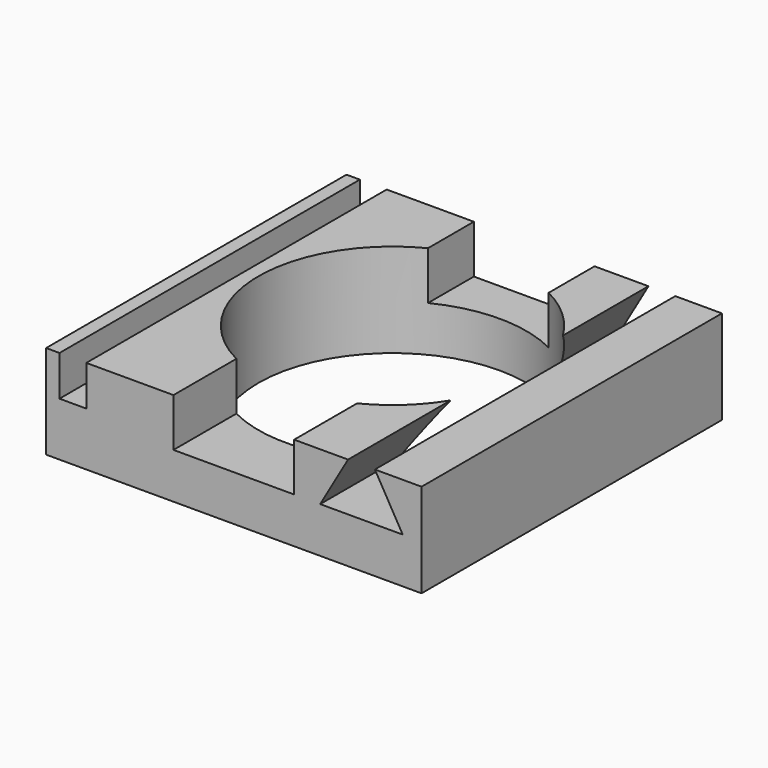
from build123d import *

# Parameters (mm, degrees)
F0_W     = 140
F0_H     = 140
F0_R     = 50
F1_DEPTH = 17.5
F2_W     = 10
F2_H     = 140
F3_DEPTH = 15
F5_DEPTH = 18
F7_DEPTH = 172.6


with BuildPart() as f1:
    # F0 (on Top) → F1 (new body, symmetric)
    with BuildSketch(Plane.XY):
        Rectangle(F0_W, F0_H)
        with Locations((0, 3.96405)):
            Circle(F0_R, mode=Mode.SUBTRACT)
    extrude(amount=F1_DEPTH, both=True)

    # F2 (on face) → F3 (cut)
    with BuildSketch(Plane.XY.offset(17.5)):
        with Locations((-60, 0)):
            Rectangle(F2_W, F2_H)
    extrude(amount=-F3_DEPTH, mode=Mode.SUBTRACT)

    # F4 (on face) → F5 (cut)
    with BuildSketch(Plane.XY.offset(17.5)):
        with BuildLine():
            Line((22.5, -70), (22.5, -40.687378))
            ThreePointArc((22.5, -40.687378), (0, -46.03595), (-22.5, -40.687378))
            Line((-22.5, -40.687378), (-22.5, -70))
            Line((-22.5, -70), (22.5, -70))
        make_face()
        with BuildLine():
            Line((22.5, 48.615477), (22.5, 70))
            Line((22.5, 70), (-22.5, 70))
            Line((-22.5, 70), (-22.5, 48.615477))
            ThreePointArc((-22.5, 48.615477), (0, 53.96405), (22.5, 48.615477))
        make_face()
    extrude(amount=-F5_DEPTH, mode=Mode.SUBTRACT)

    # F6 (on face) → F7 (cut)
    with BuildSketch(Plane.XZ.offset(70)):
        Polygon((52.595693, 17.5), (42.595693, 17.5), (32.203389, -0.5), (62.987998, -0.5), align=None)
    extrude(amount=-F7_DEPTH, mode=Mode.SUBTRACT)


solid = f1.part
